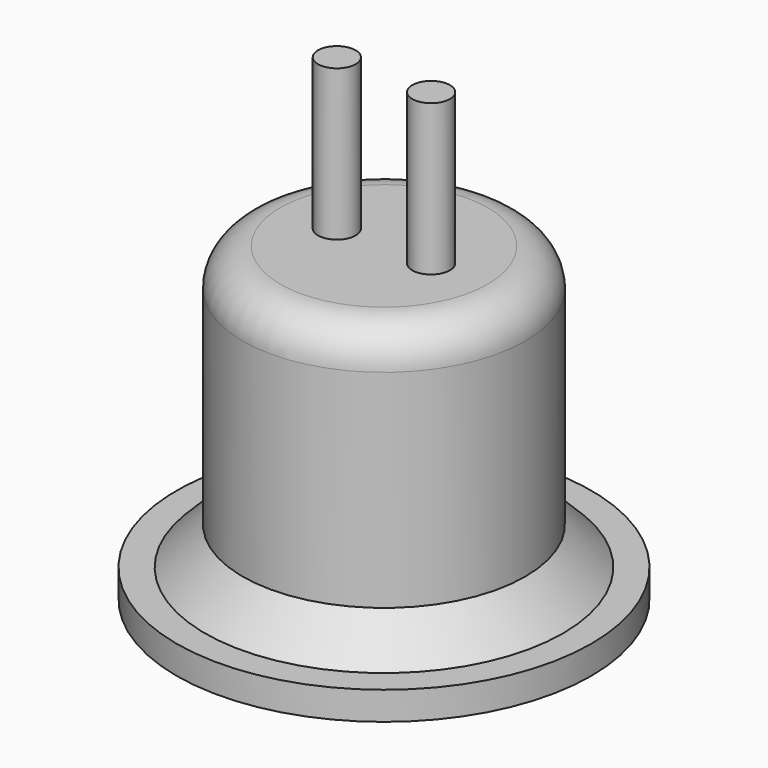
from build123d import *

# Parameters (mm, degrees)
F0_R     = 27.94
F1_DEPTH = 3.81
F2_R     = 19.05
F3_DEPTH = 38.1
F4_R     = 5.08
F5_SIZE  = 5.08
F6_R     = 2.54
F7_DEPTH = 20.32


with BuildPart() as f1:
    # F0 (on Top) → F1 (new body)
    with BuildSketch(Plane.XY):
        Circle(F0_R)
    extrude(amount=F1_DEPTH)

    # F2 (on face) → F3 (join)
    with BuildSketch(Plane.XY.offset(3.81)):
        Circle(F2_R)
    extrude(amount=F3_DEPTH)

    # F4
    f4_edges = [f1.edges().sort_by_distance(p)[0] for p in [
        (-19.05, 0, 41.91),
    ]]
    fillet(f4_edges, radius=F4_R)

    # F5
    f5_edges = [f1.edges().sort_by_distance(p)[0] for p in [
        (19.05, 0, 20.32),
        (-19.05, 0, 36.83),
        (-19.05, 0, 3.81),
    ]]
    chamfer(f5_edges, length=F5_SIZE)

    # F6 (on face) → F7 (join)
    with BuildSketch(Plane.XY.offset(41.91)):
        with Locations((-6.35, 0)):
            Circle(F6_R)
        with Locations((6.35, 0)):
            Circle(F6_R)
    extrude(amount=F7_DEPTH)


solid = f1.part
